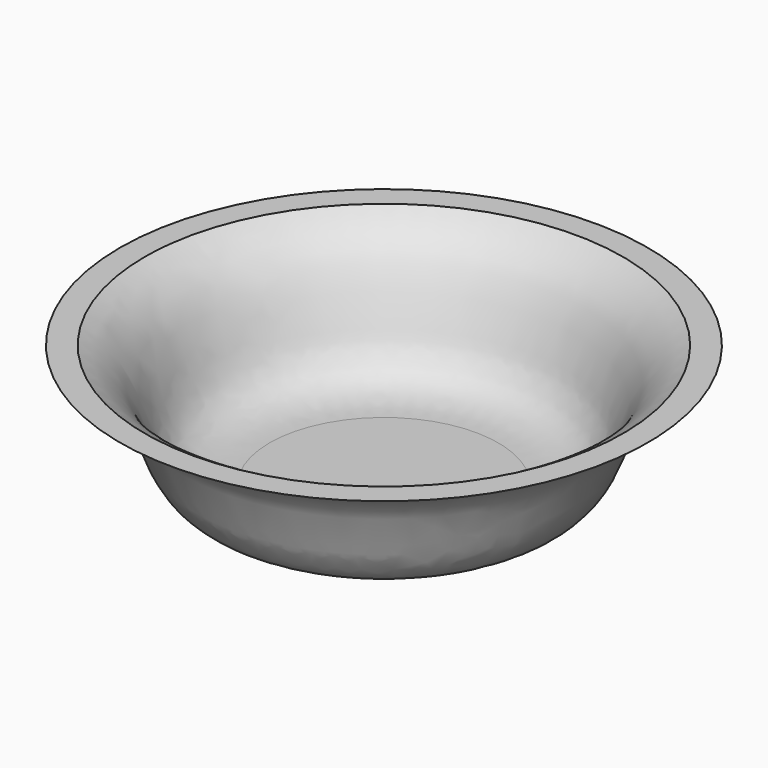
from build123d import *

# Parameters (mm, degrees)
F2_T = -1.27


with BuildPart() as f1:
    # F0 (on Front) → F1 (revolve)
    with BuildSketch(Plane.XZ):
        with BuildLine():
            Line((-16.51, 0), (0, 0))
            Line((0, 0), (0, 19.05))
            Line((0, 19.05), (-38.1, 19.05))
            add(Edge.make_bspline(
                [(-16.51, 0), (-32.467142, 0), (-23.282589, 14.898708), (-38.1, 19.05)],
                knots=[0, 0, 0, 0, 28.792891, 28.792891, 28.792891, 28.792891], degree=3))
        make_face()
    revolve(axis=Axis((0, 0, 9.525), (0, 0, -1)))

    # F2
    f2_openings = [f1.faces().sort_by_distance(p)[0] for p in [
        (0, 0, 19.05),
    ]]
    offset(amount=F2_T, openings=f2_openings)


solid = f1.part
